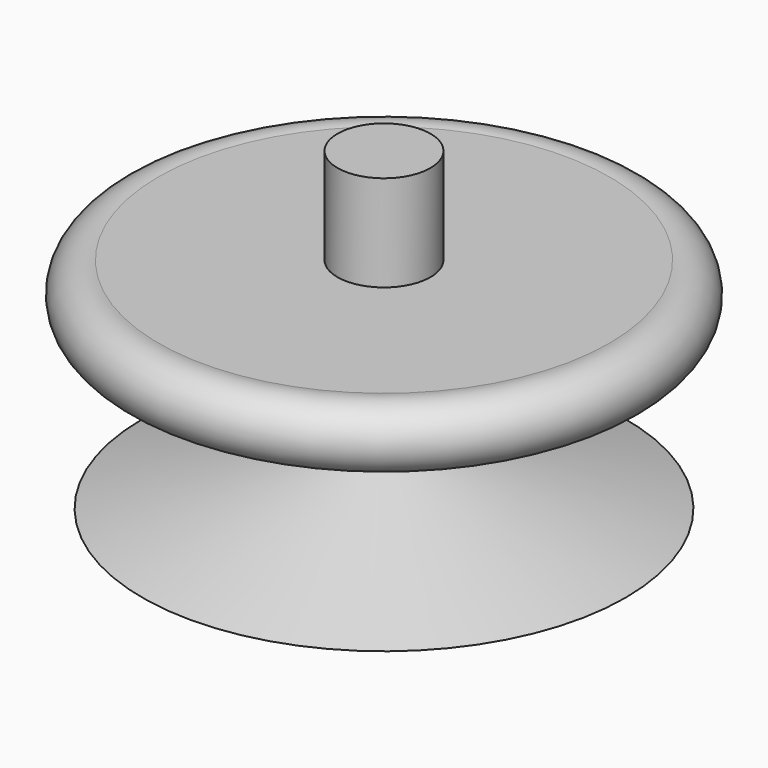
from build123d import *


with BuildPart() as f1:
    # F0 (on Front) → F1 (revolve)
    with BuildSketch(Plane.XZ):
        with BuildLine():
            Line((-29.639203, 7.109715), (0, 0))
            Line((0, 0), (0, 45.72))
            Line((0, 45.72), (-5.701541, 45.72))
            Line((-5.701541, 45.72), (-5.701541, 33.9344))
            Line((-5.701541, 33.9344), (-27.647141, 33.9344))
            ThreePointArc((-27.647141, 33.9344), (-32.383798, 30.238807), (-27.647141, 26.543214))
            Line((-27.647141, 26.543214), (-20.027141, 26.543214))
            Line((-20.027141, 26.543214), (-5.318905, 14.436592))
            Line((-5.318905, 14.436592), (-29.639203, 7.109715))
        make_face()
    revolve(axis=Axis((0, 0, 22.86), (0, 0, -1)))


with BuildPart() as f2:
    # F0 (on Front) → F2 (revolve)
    with BuildSketch(Plane.XZ):
        with BuildLine():
            Line((-29.639203, 7.109715), (0, 0))
            Line((0, 0), (0, 45.72))
            Line((0, 45.72), (-5.701541, 45.72))
            Line((-5.701541, 45.72), (-5.701541, 33.9344))
            Line((-5.701541, 33.9344), (-27.647141, 33.9344))
            ThreePointArc((-27.647141, 33.9344), (-32.383798, 30.238807), (-27.647141, 26.543214))
            Line((-27.647141, 26.543214), (-20.027141, 26.543214))
            Line((-20.027141, 26.543214), (-5.318905, 14.436592))
            Line((-5.318905, 14.436592), (-29.639203, 7.109715))
        make_face()
    revolve(axis=Axis((0, 0, 22.86), (0, 0, -1)))


solid = Compound([f1.part, f2.part])
